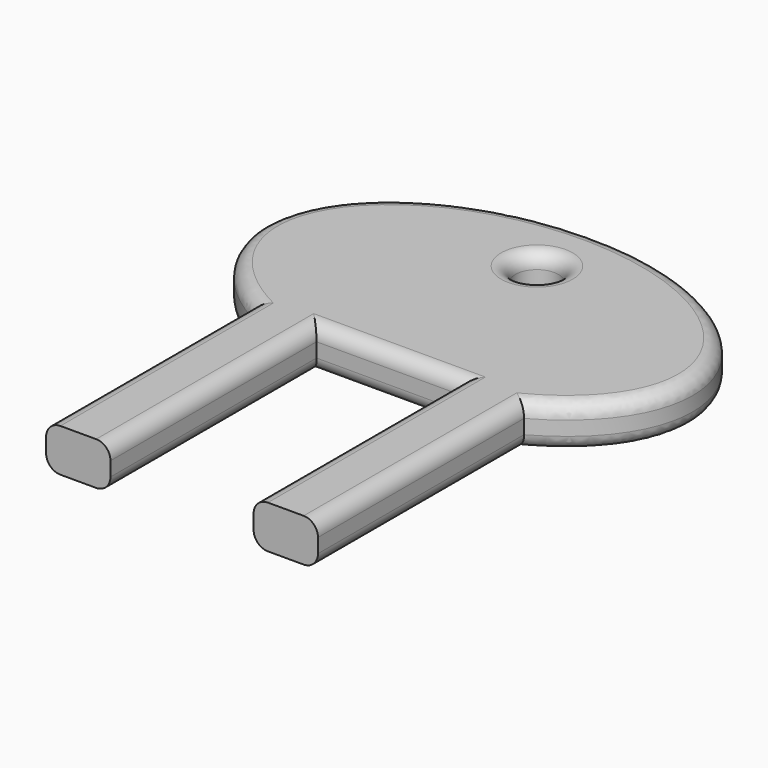
from build123d import *

# Parameters (mm, degrees)
SKETCH_R  = 1.5
PAD_DEPTH = 3
FILLET_R  = 1


with BuildPart() as part:
    # Sketch → Pad (new body)
    with BuildSketch(Plane.XY):
        with BuildLine():
            Line((-9.5, 0), (-9.5, -18))
            Line((-9.5, -18), (-5, -18))
            Line((-5, -18), (-5, 0))
            Line((-5, 0), (5, 0))
            Line((5, 0), (5, -18))
            Line((5, -18), (9.5, -18))
            Line((9.5, -18), (9.5, 0))
            add(Edge.make_bspline(
                [(9.5, 0), (42.012926, 18), (0, 18), (-42.012926, 18), (-9.5, 0)],
                knots=[5.398242, 5.398242, 5.398242, 7.853982, 7.853982, 10.309721, 10.309721, 10.309721], degree=2, weights=[1, 0.336245, 1, 0.336245, 1]))
        make_face()
        with Locations((0, 13)):
            Circle(SKETCH_R, mode=Mode.SUBTRACT)
    extrude(amount=PAD_DEPTH)

    # Fillet
    fillet_edges = [part.edges().sort_by_distance(p)[0] for p in [
        (-9.5, -9, 3),
        (-5, -9, 3),
        (0, 0, 3),
        (5, -9, 3),
        (-0.000491, 18, 3),
        (9.5, -9, 3),
        (-1.5, 13, 3),
        (-0.000491, 18, 0),
        (-1.5, 13, 0),
        (-9.5, -9, 0),
        (-5, -9, 0),
        (0, 0, 0),
        (5, -9, 0),
        (9.5, -9, 0),
    ]]
    fillet(fillet_edges, radius=FILLET_R)


solid = part.part
